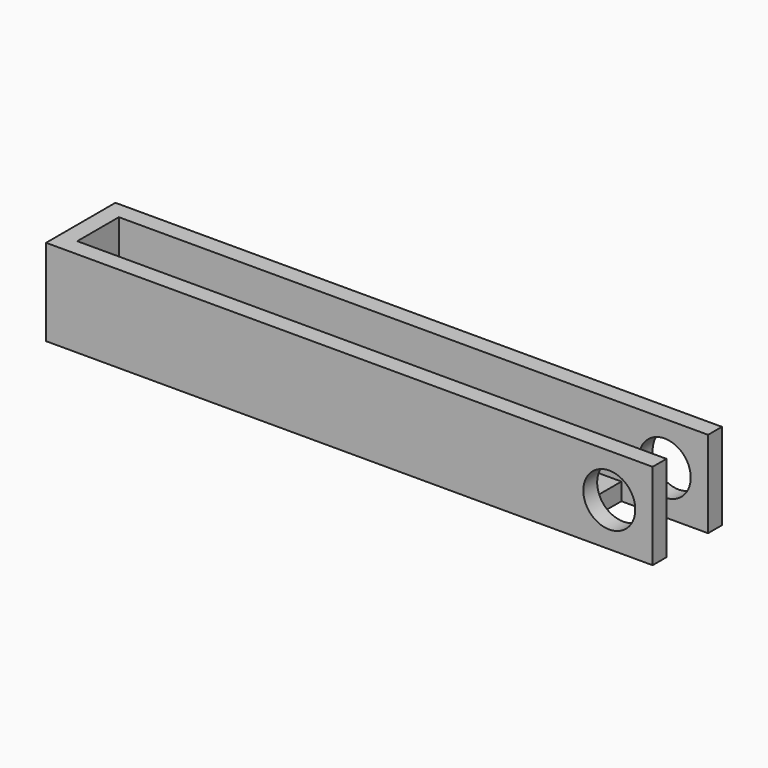
from build123d import *

# Parameters (mm, degrees)
F0_W     = 88.9
F0_H     = 12.7
F1_DEPTH = 12.7
F2_W     = 83.82
F2_H     = 7.62
F3_DEPTH = 10.16
F4_T     = -2.54
F5_W     = 12.7
F5_H     = 7.62
F6_DEPTH = 25.4
F7_R     = 3.81
F8_DEPTH = 25.4


with BuildPart() as f1:
    # F0 (on Top) → F1 (new body)
    with BuildSketch(Plane.XY):
        with Locations((3.885043, 20.237593)):
            Rectangle(F0_W, F0_H)
    extrude(amount=F1_DEPTH)

    # F2 (on face) → F3 (join)
    with BuildSketch(Plane.XY.offset(12.7)):
        with Locations((3.885043, 20.237593)):
            Rectangle(F2_W, F2_H)
    extrude(amount=-F3_DEPTH)

    # F4
    f4_openings = [f1.faces().sort_by_distance(p)[0] for p in [
        (3.885043, 20.237593, 12.7),
    ]]
    offset(amount=F4_T, openings=f4_openings)

    # F5 (on face) → F6 (cut)
    with BuildSketch(Plane(origin=(0, 0, 0), x_dir=(1, 0, 0), z_dir=(0, 0, -1))):
        with Locations((41.985043, -20.237593)):
            Rectangle(F5_W, F5_H)
    extrude(amount=-F6_DEPTH, mode=Mode.SUBTRACT)

    # F7 (on face) → F8 (cut)
    with BuildSketch(Plane(origin=(0, 26.587593, 0), x_dir=(-1, 0, 0), z_dir=(0, 1, 0))):
        with Locations((-41.985043, 6.35)):
            Circle(F7_R)
    extrude(amount=-F8_DEPTH, mode=Mode.SUBTRACT)


solid = f1.part
